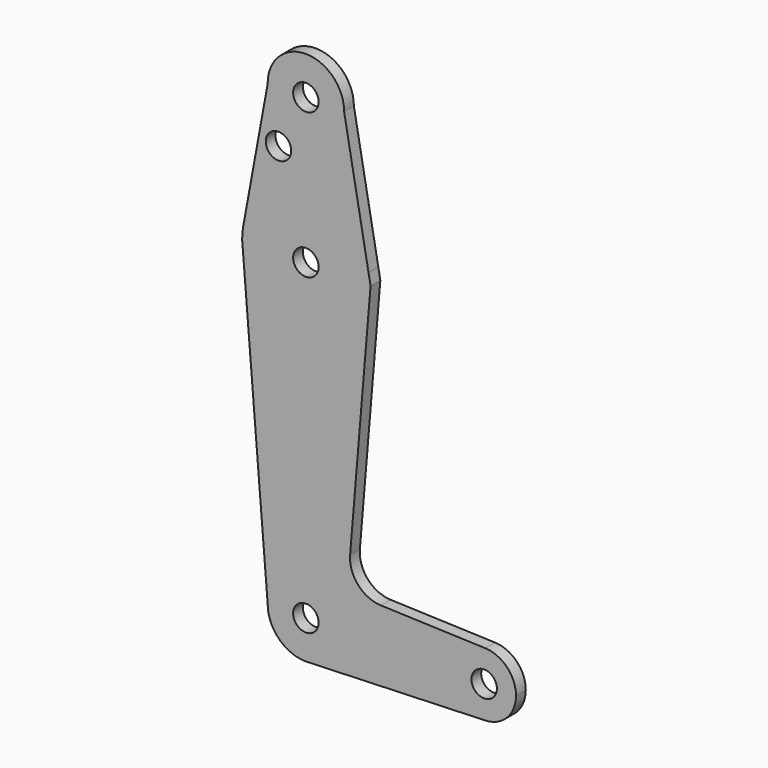
from build123d import *

# Parameters (mm, degrees)
F0_R     = 3.175
F1_DEPTH = 3.048


with BuildPart() as f1:
    # F0 (on Front) → F1 (new body)
    with BuildSketch(Plane.XZ):
        with BuildLine():
            ThreePointArc((44.7324052746, -7.9324746146), (50.1616327839, -5.5119104847), (52.3875, 0))
            ThreePointArc((52.3875, 0), (50.1616327839, 5.5119104847), (44.7324052746, 7.9324746146))
            ThreePointArc((44.7324052746, 7.9324746146), (36.5125, 0), (44.7324052746, -7.9324746146))
        make_face()
        with Locations((44.45, 0)):
            Circle(F0_R, mode=Mode.SUBTRACT)
        with BuildLine():
            ThreePointArc((44.7324052746, -7.9324746146), (36.5125, 0), (44.7324052746, 7.9324746146))
            Line((44.7324052746, 7.9324746146), (18.6662668801, 8.8604593013))
            ThreePointArc((18.6662668801, 8.8604593013), (13.0020126717, 11.5294959629), (11.0268503344, 17.4714035843))
            Line((11.0268503344, 17.4714035843), (16.125005663, 78.1357682306))
            Line((16.125005663, 78.1357682306), (15.6170547798, 80.9190466706))
            ThreePointArc((15.6170547798, 80.9190466706), (15.8103821843, 79.4998073808), (15.875, 78.0689194798))
            ThreePointArc((15.875, 78.0689194798), (1.4089286048, 62.2565652849), (-15.6249112046, 75.2621820771))
            ThreePointArc((-15.6249112046, 75.2621820771), (-15.6772809317, 75.5712230234), (-15.7235388333, 75.8812377027))
            Line((-15.7235388333, 75.8812377027), (-9.525, 0))
            ThreePointArc((-9.525, 0), (0, 9.525), (9.525, 0))
            ThreePointArc((9.525, 0), (6.9705567315, -6.4912990883), (0.6773435479, -9.500885786))
            Line((0.6773435479, -9.500885786), (44.7324052746, -7.9324746146))
        make_face()
        with BuildLine():
            Line((0, -9.525), (0.6773435479, -9.500885786))
            ThreePointArc((0.6773435479, -9.500885786), (6.9705567315, -6.4912990883), (9.525, 0))
            ThreePointArc((9.525, 0), (0, 9.525), (-9.525, 0))
            ThreePointArc((-9.525, 0), (-6.7351920908, -6.7351920908), (0, -9.525))
        make_face()
        Circle(F0_R, mode=Mode.SUBTRACT)
        with BuildLine():
            ThreePointArc((0, -9.525), (0.3388863295, -9.5189695375), (0.6773435479, -9.500885786))
            Line((0.6773435479, -9.500885786), (0, -9.525))
        make_face()
        with BuildLine():
            ThreePointArc((15.875, 78.0689194798), (15.8103821843, 79.4998073808), (15.6170547798, 80.9190466706))
            ThreePointArc((15.6170547798, 80.9190466706), (0.0060521117, 93.9439183262), (-15.6148771018, 80.9309533889))
            ThreePointArc((-15.6148771018, 80.9309533889), (-15.8264163635, 79.3099553729), (-15.8701316945, 77.6757973642))
            Line((-15.8701316945, 77.6757973642), (-15.6249112046, 75.2621820771))
            ThreePointArc((-15.6249112046, 75.2621820771), (1.4089286048, 62.2565652849), (15.875, 78.0689194798))
        make_face()
        with Locations((0, 78.0689194798)):
            Circle(F0_R, mode=Mode.SUBTRACT)
        with BuildLine():
            ThreePointArc((-15.6148771018, 80.9309533889), (0.0060521117, 93.9439183262), (15.6170547798, 80.9190466706))
            Line((15.6170547798, 80.9190466706), (9.525, 114.3))
            ThreePointArc((9.525, 114.3), (0.0690162125, 104.775250042), (-9.5239998451, 114.1619711984))
            Line((-9.5239998451, 114.1619711984), (-15.6148771018, 80.9309533889))
        make_face()
        with Locations((-6.8319449201, 101.3524383307)):
            Circle(F0_R, mode=Mode.SUBTRACT)
        with BuildLine():
            Line((-15.8701316945, 77.6757973642), (-15.7235388333, 75.8812377027))
            ThreePointArc((-15.7235388333, 75.8812377027), (-15.6772809317, 75.5712230234), (-15.6249112046, 75.2621820771))
            Line((-15.6249112046, 75.2621820771), (-15.8701316945, 77.6757973642))
        make_face()
        with BuildLine():
            ThreePointArc((-15.8701316945, 77.6757973642), (-15.8222980458, 76.7764375457), (-15.7235388333, 75.8812377027))
            Line((-15.7235388333, 75.8812377027), (-15.8701316945, 77.6757973642))
        make_face()
        with BuildLine():
            ThreePointArc((-9.5239998451, 114.1619711984), (0.0690162125, 104.775250042), (9.525, 114.3))
            ThreePointArc((9.525, 114.3), (-0.0690162125, 123.824749958), (-9.5239998451, 114.1619711984))
        make_face()
        with Locations((0, 114.3)):
            Circle(F0_R, mode=Mode.SUBTRACT)
    extrude(amount=F1_DEPTH)


solid = f1.part
